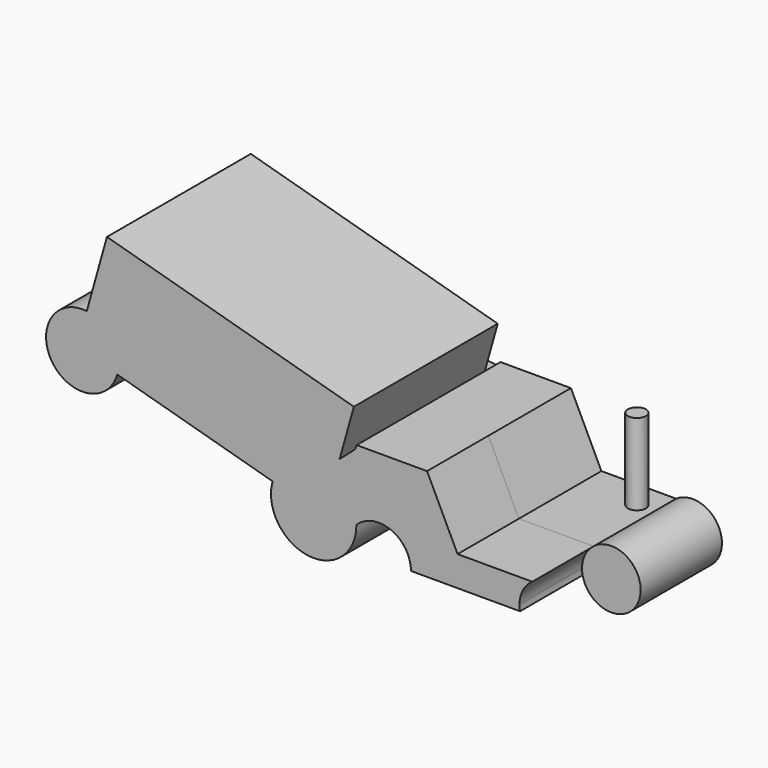
from build123d import *

# Parameters (mm, degrees)
F1_DEPTH  = 114.3
F2_R      = 14.7641240752
F3_DEPTH  = 132.08
F5_DEPTH  = 165.1
F6_DEPTH  = 53.34
F7_W      = 167.64
F7_H      = 75.5490642041
F8_DEPTH  = 416.56
F9_DEPTH  = 104.14
F10_R     = 58.9096936167
F10_R_2   = 69.3638510651
F11_DEPTH = 228.6
F12_DEPTH = 124.46


with BuildPart() as f1:
    # F0 (on Front) → F1 (new body)
    with BuildSketch(Plane.XZ):
        Polygon((-152.2679626942, 91.6335880756), (-174.4953691959, 12.3544447124), (-143.3922946453, 68.4929564595), (-127.1618189825, 113.5505846584), align=None)
        Polygon((-143.3922946453, 68.4929564595), (-174.4953691959, 12.3544447124), (-88.5811317712, -30.8491028845), (-88.5811317712, 68.4929564595), align=None)
        Polygon((-127.1618189825, 113.5505846584), (-143.3922946453, 68.4929564595), (-88.5811317712, 68.4929564595), (-33.7699688971, 68.4929564595), (-10.2984756231, 120.4584985971), (-119.2487329245, 120.4584985971), align=None)
        Polygon((-88.5811317712, 68.4929564595), (-88.5811317712, -30.8491028845), (29.068255797, -30.8491028845), (8.9511722326, 17.8852565587), (-33.7699688971, 68.4929564595), align=None)
        Polygon((-124.6734783053, 120.4584985971), (-127.1618189825, 113.5505846584), (-119.2487329245, 120.4584985971), align=None)
        Polygon((8.9511722326, 17.8852565587), (29.068255797, -30.8491028845), (200.966194272, -30.8491028845), (200.966194272, 17.8852565587), (131.0636848211, 17.8852565587), (39.2291881144, 17.8852565587), align=None)
        Polygon((-10.2984756231, 120.4584985971), (-33.7699688971, 68.4929564595), (8.9511722326, 17.8852565587), (39.2291881144, 17.8852565587), align=None)
    extrude(amount=F1_DEPTH)

    # F2 (on face) → F3 (join)
    with BuildSketch(Plane.XY.offset(17.8852565587)):
        with Locations((132.660344243, -44.7543635964)):
            Circle(F2_R)
    extrude(amount=F3_DEPTH)

    # F4 (on face) → F5 (join)
    with BuildSketch(Plane(origin=(0, 0, 0), x_dir=(-1, 0, 0), z_dir=(0, 1, 0))):
        with BuildLine():
            ThreePointArc((140.7021095386, -30.8491028845), (88.5811317712, 21.2718748828), (36.4601540038, -30.8491028845))
            ThreePointArc((36.4601540038, -30.8491028845), (88.5811317712, -82.9700806519), (140.7021095386, -30.8491028845))
        make_face()
        with BuildLine():
            ThreePointArc((-139.8416826612, -21.4376766235), (-234.8171624105, -16.7085714313), (-140.7812567162, -30.8491028845))
            ThreePointArc((-140.7812567162, -30.8491028845), (-140.0771585543, -26.1667818156), (-139.8416826612, -21.4376766235))
        make_face()
    extrude(amount=-F5_DEPTH)

    # F6 (add): a face of the model
    f6_faces = [f1.faces().sort_by_distance(p)[0] for p in [
        (-32.0897758633, -114.3, 39.2066158894),
    ]]
    extrude(f6_faces, amount=F6_DEPTH)

    # F7 (on face) → F8 (join)
    with BuildSketch(Plane(origin=(-164.9898592959, 0, 46.2580259532), x_dir=(0, -1, 0), z_dir=(-0.9628717361, 0, 0.2699592929))):
        with Locations((83.82, -9.3836272135)):
            Rectangle(F7_W, F7_H)
    extrude(amount=F8_DEPTH)

    # F9 (add): a face of the model
    f9_faces = [f1.faces().sort_by_distance(p)[0] for p in [
        (-357.8723958787, -83.82, 129.8219473654),
    ]]
    extrude(f9_faces, amount=F9_DEPTH)

    # F10 (on face) → F11 (join)
    with BuildSketch(Plane.XZ.offset(167.64)):
        with Locations((-570.314151911, 110.9217789702)):
            Circle(F10_R)
        with Locations((-194.5015435206, 5.555610003)):
            Circle(F10_R_2)
    extrude(amount=-F11_DEPTH)

    # F12 (add): a face of the model
    f12_faces = [f1.faces().sort_by_distance(p)[0] for p in [
        (-283.3393159962, -167.64, 105.4244484486),
    ]]
    extrude(f12_faces, amount=F12_DEPTH)


solid = f1.part
